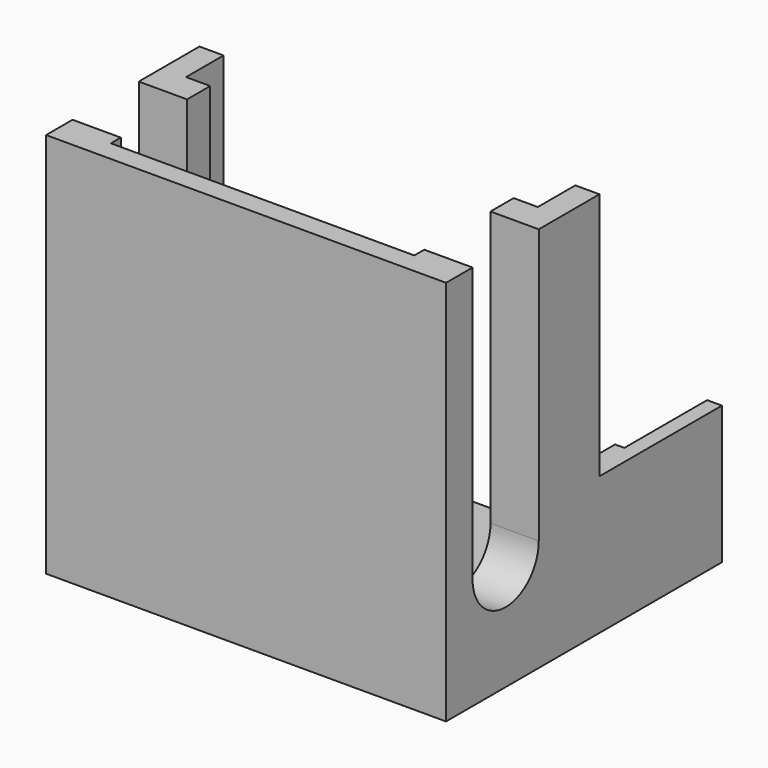
from build123d import *

# Parameters (mm, degrees)
F0_R      = 2
F1_DEPTH  = 4
F3_DEPTH  = 2
F5_DEPTH  = 50
F7_DEPTH  = 8
F9_DEPTH  = 8
F10_W     = 22.2
F10_H     = 36
F11_DEPTH = 60


with BuildPart() as f1:
    # F0 (on Top) → F1 (new body)
    with BuildSketch(Plane.XY):
        Polygon((26.85, 17.5), (-26.85, 17.5), (-26.85, 32.5), (-29, 32.5), (-29, 17.5), (-29, -17.5), (29, -17.5), (29, 17.5), (29, 32.5), (26.85, 32.5), align=None)
        with Locations((0, -9.5)):
            Circle(F0_R, mode=Mode.SUBTRACT)
        with Locations((-21, 9.5)):
            Circle(F0_R, mode=Mode.SUBTRACT)
        with Locations((21, 9.5)):
            Circle(F0_R, mode=Mode.SUBTRACT)
    extrude(amount=F1_DEPTH)

    # F2 (on face) → F3 (join)
    with BuildSketch(Plane.XY.offset(4)):
        Polygon((26.85, 32.5), (26.85, 17.5), (-26.85, 17.5), (-26.85, 32.5), (-29, 32.5), (-29, -17.5), (29, -17.5), (29, 32.5), align=None)
        Polygon((3.05, -11.260918321), (0, -13.0218366421), (-3.05, -11.260918321), (-3.05, -7.739081679), (0, -5.9781633579), (3.05, -7.739081679), align=None, mode=Mode.SUBTRACT)
        Polygon((-17.4781633579, 9.5), (-19.239081679, 6.45), (-22.760918321, 6.45), (-24.5218366421, 9.5), (-22.760918321, 12.55), (-19.239081679, 12.55), align=None, mode=Mode.SUBTRACT)
        Polygon((22.760918321, 12.55), (24.5218366421, 9.5), (22.760918321, 6.45), (19.239081679, 6.45), (17.4781633579, 9.5), (19.239081679, 12.55), align=None, mode=Mode.SUBTRACT)
    extrude(amount=F3_DEPTH)

    # F4 (on face) → F5 (join)
    with BuildSketch(Plane.XY.offset(6)):
        Polygon((-25.5, 3.5), (-25.5, 17.5), (-26.85, 17.5), (-26.85, 32.5), (-29, 32.5), (-29, -17.5), (29, -17.5), (29, 32.5), (26.85, 32.5), (26.85, 17.5), (25.5, 17.5), (25.5, 3.5), (22, 3.5), (22, -14.5), (-22, -14.5), (-22, 3.5), align=None)
    extrude(amount=F5_DEPTH)

    # F6 (on face) → F7 (cut)
    with BuildSketch(Plane(origin=(-29, 0, 0), x_dir=(0, -1, 0), z_dir=(-1, 0, 0))):
        with BuildLine():
            Line((0.7, 56), (0.7, 13.6))
            ThreePointArc((0.7, 13.6), (6.7, 7.6), (12.7, 13.6))
            Line((12.7, 13.6), (12.7, 56))
            Line((12.7, 56), (0.7, 56))
        make_face()
    extrude(amount=-F7_DEPTH, mode=Mode.SUBTRACT)

    # F8 (on face) → F9 (cut)
    with BuildSketch(Plane.YZ.offset(29)):
        with BuildLine():
            Line((-12.7, 56), (-12.7, 16.2))
            ThreePointArc((-12.7, 16.2), (-6.7, 10.2), (-0.7, 16.2))
            Line((-0.7, 16.2), (-0.7, 56))
            Line((-0.7, 56), (-12.7, 56))
        make_face()
    extrude(amount=-F9_DEPTH, mode=Mode.SUBTRACT)

    # F10 (on face) → F11 (cut)
    with BuildSketch(Plane.YZ.offset(29)):
        with Locations((21.4, 38)):
            Rectangle(F10_W, F10_H)
    extrude(amount=-F11_DEPTH, mode=Mode.SUBTRACT)


solid = f1.part
